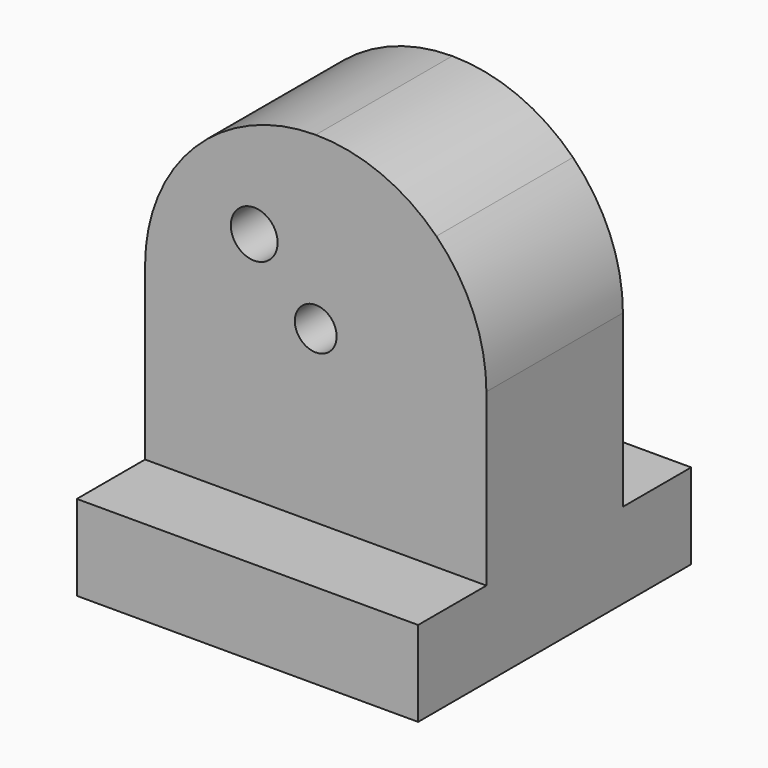
from build123d import *

# Parameters (mm, degrees)
F1_DEPTH = 10
F2_R     = 2.742204369
F3_DEPTH = 25
F4_W     = 40
F4_H     = 10
F4_H_2   = 20
F5_DEPTH = 10


with BuildPart() as f1:
    # F0 (on Front) → F1 (new body, symmetric)
    with BuildSketch(Plane.XZ):
        with BuildLine():
            Line((1.7324116139, 1.7324116139), (14.1421356237, 14.1421356237))
            ThreePointArc((14.1421356237, 14.1421356237), (7.6536686307, 18.4775906571), (-3.59e-08, 20))
            ThreePointArc((-3.59e-08, 20), (-7.6536686639, 18.4775906433), (-14.1421356237, 14.1421356237))
            Line((-14.1421356237, 14.1421356237), (-1.7324116139, 1.7324116139))
            ThreePointArc((-1.7324116139, 1.7324116139), (0, 2.45), (1.7324116139, 1.7324116139))
        make_face()
        with BuildLine():
            ThreePointArc((-20, 0), (-14.1421356237, -14.1421356237), (0, -20))
            ThreePointArc((0, -20), (14.1421356237, -14.1421356237), (20, 0))
            ThreePointArc((20, 0), (18.4775906502, 7.6536686473), (14.1421356237, 14.1421356237))
            Line((14.1421356237, 14.1421356237), (1.7324116139, 1.7324116139))
            ThreePointArc((1.7324116139, 1.7324116139), (2.2635048547, 0.9375744093), (2.45, 0))
            ThreePointArc((2.45, 0), (-0.9375744093, -2.2635048547), (-1.7324116139, 1.7324116139))
            Line((-1.7324116139, 1.7324116139), (-14.1421356237, 14.1421356237))
            ThreePointArc((-14.1421356237, 14.1421356237), (-18.4775906502, 7.6536686473), (-20, 0))
        make_face()
        with BuildLine():
            Line((-20, -20), (0, -20))
            ThreePointArc((0, -20), (-14.1421356237, -14.1421356237), (-20, 0))
            Line((-20, 0), (-20, -20))
        make_face()
        with BuildLine():
            Line((0, -20), (20, -20))
            Line((20, -20), (20, 0))
            ThreePointArc((20, 0), (14.1421356237, -14.1421356237), (0, -20))
        make_face()
    extrude(amount=F1_DEPTH, both=True)

    # F2 (on face) → F3 (cut)
    with BuildSketch(Plane.XZ.offset(10)):
        with Locations((-7.2094062343, 7.4171875603)):
            Circle(F2_R)
    extrude(amount=-F3_DEPTH, mode=Mode.SUBTRACT)

    # F4 (on face) → F5 (join)
    with BuildSketch(Plane(origin=(0, 0, -20), x_dir=(1, 0, 0), z_dir=(0, 0, -1))):
        with Locations((0, 15)):
            Rectangle(F4_W, F4_H)
        Rectangle(F4_W, F4_H_2)
        with Locations((0, -15)):
            Rectangle(F4_W, F4_H)
    extrude(amount=F5_DEPTH)


solid = f1.part
